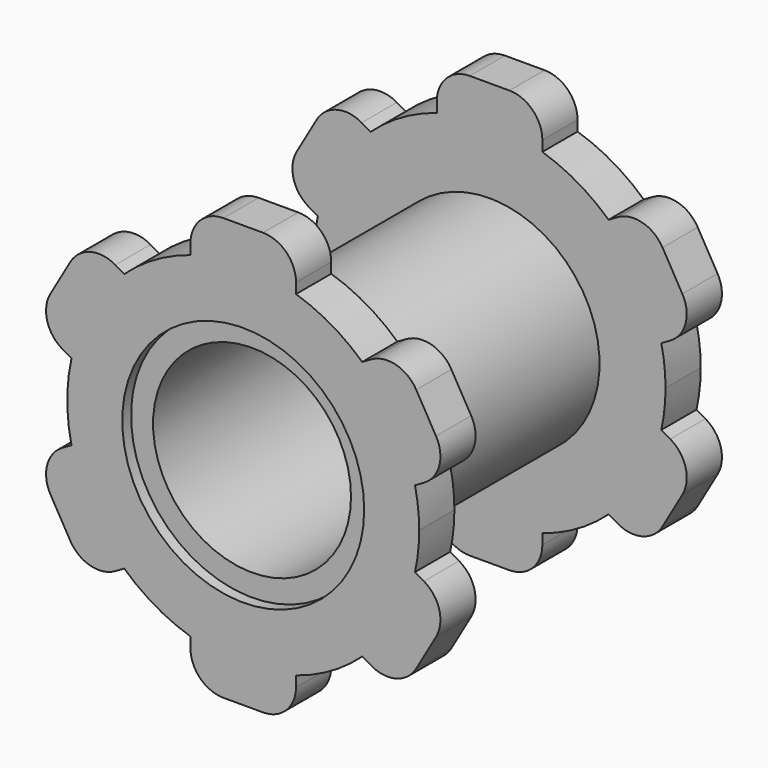
from build123d import *

# Parameters (mm, degrees)
F1_DEPTH = 25.4
F2_R     = 63.5
F3_DEPTH = 152.4
F6_R     = 57.15
F7_DEPTH = 228.6
F8_R     = 69.85
F8_R_2   = 57.15
F9_DEPTH = 6.35


with BuildPart() as f1:
    # F0 (on Front) → F1 (new body)
    with BuildSketch(Plane.XZ):
        with BuildLine():
            ThreePointArc((99.175375, -22.063657), (100.992025, -11.098241), (101.6, 0))
            ThreePointArc((101.6, 0), (100.992025, 11.098241), (99.175375, 22.063657))
            ThreePointArc((99.175375, 22.063657), (87.988181, 50.8), (68.695375, 74.856566))
            ThreePointArc((68.695375, 74.856566), (50.8, 87.988181), (30.48, 96.920223))
            ThreePointArc((30.48, 96.920223), (0, 101.6), (-30.48, 96.920223))
            ThreePointArc((-30.48, 96.920223), (-50.8, 87.988181), (-68.695375, 74.856566))
            ThreePointArc((-68.695375, 74.856566), (-87.988181, 50.8), (-99.175375, 22.063657))
            ThreePointArc((-99.175375, 22.063657), (-101.6, 0), (-99.175375, -22.063657))
            ThreePointArc((-99.175375, -22.063657), (-87.988181, -50.8), (-68.695375, -74.856566))
            ThreePointArc((-68.695375, -74.856566), (-50.8, -87.988181), (-30.48, -96.920223))
            ThreePointArc((-30.48, -96.920223), (0, -101.6), (30.48, -96.920223))
            ThreePointArc((30.48, -96.920223), (50.8, -87.988181), (68.695375, -74.856566))
            ThreePointArc((68.695375, -74.856566), (87.988181, -50.8), (99.175375, -22.063657))
        make_face()
        with BuildLine():
            ThreePointArc((-30.48, 96.920223), (0, 101.6), (30.48, 96.920223))
            Line((30.48, 96.920223), (30.48, 102.87))
            ThreePointArc((30.48, 102.87), (24.900384, 116.340384), (11.43, 121.92))
            Line((11.43, 121.92), (-11.43, 121.92))
            ThreePointArc((-11.43, 121.92), (-24.900384, 116.340384), (-30.48, 102.87))
            Line((-30.48, 102.87), (-30.48, 96.920223))
        make_face()
        with BuildLine():
            ThreePointArc((99.175375, -22.063657), (100.992025, -11.098241), (101.6, 0))
            ThreePointArc((101.6, 0), (100.992025, 11.098241), (99.175375, 22.063657))
            ThreePointArc((99.175375, 22.063657), (87.988181, 50.8), (68.695375, 74.856566))
            ThreePointArc((68.695375, 74.856566), (50.8, 87.988181), (30.48, 96.920223))
            ThreePointArc((30.48, 96.920223), (0, 101.6), (-30.48, 96.920223))
            ThreePointArc((-30.48, 96.920223), (-50.8, 87.988181), (-68.695375, 74.856566))
            ThreePointArc((-68.695375, 74.856566), (-87.988181, 50.8), (-99.175375, 22.063657))
            ThreePointArc((-99.175375, 22.063657), (-101.6, 0), (-99.175375, -22.063657))
            ThreePointArc((-99.175375, -22.063657), (-87.988181, -50.8), (-68.695375, -74.856566))
            ThreePointArc((-68.695375, -74.856566), (-50.8, -87.988181), (-30.48, -96.920223))
            ThreePointArc((-30.48, -96.920223), (0, -101.6), (30.48, -96.920223))
            ThreePointArc((30.48, -96.920223), (50.8, -87.988181), (68.695375, -74.856566))
            ThreePointArc((68.695375, -74.856566), (87.988181, -50.8), (99.175375, -22.063657))
        make_face()
        with BuildLine():
            ThreePointArc((68.695375, 74.856566), (87.988181, 50.8), (99.175375, 22.063657))
            Line((99.175375, 22.063657), (104.328033, 25.038546))
            ThreePointArc((104.328033, 25.038546), (113.20392, 36.605827), (111.300817, 51.06133))
            Line((111.300817, 51.06133), (99.870817, 70.85867))
            ThreePointArc((99.870817, 70.85867), (88.303536, 79.734557), (73.848033, 77.831454))
            Line((73.848033, 77.831454), (68.695375, 74.856566))
        make_face()
        with BuildLine():
            Line((104.328033, -25.038546), (99.175375, -22.063657))
            ThreePointArc((99.175375, -22.063657), (87.988181, -50.8), (68.695375, -74.856566))
            Line((68.695375, -74.856566), (73.848033, -77.831454))
            ThreePointArc((73.848033, -77.831454), (88.303536, -79.734557), (99.870817, -70.85867))
            Line((99.870817, -70.85867), (111.300817, -51.06133))
            ThreePointArc((111.300817, -51.06133), (113.20392, -36.605827), (104.328033, -25.038546))
        make_face()
        with BuildLine():
            Line((30.48, -102.87), (30.48, -96.920223))
            ThreePointArc((30.48, -96.920223), (0, -101.6), (-30.48, -96.920223))
            Line((-30.48, -96.920223), (-30.48, -102.87))
            ThreePointArc((-30.48, -102.87), (-24.900384, -116.340384), (-11.43, -121.92))
            Line((-11.43, -121.92), (11.43, -121.92))
            ThreePointArc((11.43, -121.92), (24.900384, -116.340384), (30.48, -102.87))
        make_face()
        with BuildLine():
            Line((-73.848033, -77.831454), (-68.695375, -74.856566))
            ThreePointArc((-68.695375, -74.856566), (-87.988181, -50.8), (-99.175375, -22.063657))
            Line((-99.175375, -22.063657), (-104.328033, -25.038546))
            ThreePointArc((-104.328033, -25.038546), (-113.20392, -36.605827), (-111.300817, -51.06133))
            Line((-111.300817, -51.06133), (-99.870817, -70.85867))
            ThreePointArc((-99.870817, -70.85867), (-88.303536, -79.734557), (-73.848033, -77.831454))
        make_face()
        with BuildLine():
            ThreePointArc((-99.175375, 22.063657), (-87.988181, 50.8), (-68.695375, 74.856566))
            Line((-68.695375, 74.856566), (-73.848033, 77.831454))
            ThreePointArc((-73.848033, 77.831454), (-88.303536, 79.734557), (-99.870817, 70.85867))
            Line((-99.870817, 70.85867), (-111.300817, 51.06133))
            ThreePointArc((-111.300817, 51.06133), (-113.20392, 36.605827), (-104.328033, 25.038546))
            Line((-104.328033, 25.038546), (-99.175375, 22.063657))
        make_face()
    extrude(amount=F1_DEPTH)

    # F2 (on face) → F3 (join)
    with BuildSketch(Plane(origin=(0, 0, 0), x_dir=(-1, 0, 0), z_dir=(0, 1, 0))):
        Circle(F2_R)
    extrude(amount=F3_DEPTH)

    # F5: F1 across plane


with BuildPart() as f1_1:
    add(f1.part)
    add(f1.part.mirror(Plane(origin=(0, 76.2, 0), x_dir=(1, 0, 0), z_dir=(0, 1, 0))))

    # F6 (on face) → F7 (cut)
    with BuildSketch(Plane.XZ.offset(25.4)):
        Circle(F6_R)
    extrude(amount=-F7_DEPTH, mode=Mode.SUBTRACT)

    # F8 (on face) → F9 (cut)
    with BuildSketch(Plane.XZ.offset(25.4)):
        Circle(F8_R)
        Circle(F8_R_2, mode=Mode.SUBTRACT)
    extrude(amount=-F9_DEPTH, mode=Mode.SUBTRACT)

    # F10: F1 across plane


with BuildPart() as f1_2:
    add(f1_1.part)
    add(f1_1.part.mirror(Plane(origin=(0, 76.2, 0), x_dir=(1, 0, 0), z_dir=(0, 1, 0))), mode=Mode.INTERSECT)


solid = f1_2.part
